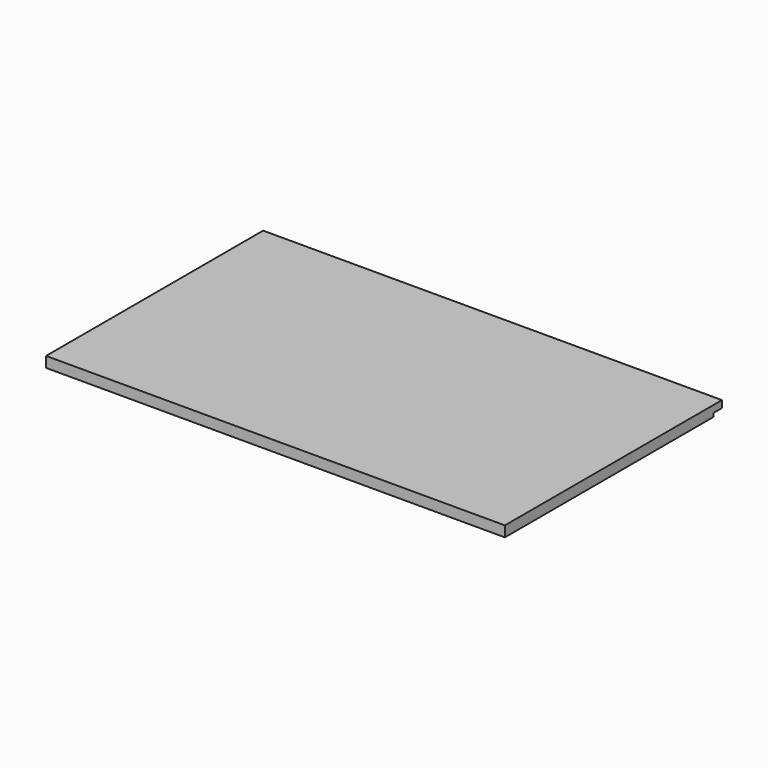
from build123d import *

# Parameters (mm, degrees)
F0_W     = 780.35
F0_H     = 461.45
F1_DEPTH = 18
F2_W     = 511.61696
F2_H     = 19
F2_W_2   = 780.35
F2_H_2   = 18
F3_DEPTH = 6


with BuildPart() as f1:
    # F0 (on Top) → F1 (new body)
    with BuildSketch(Plane.XY):
        with Locations((0.709837, -52.39902)):
            Rectangle(F0_W, F0_H)
    extrude(amount=F1_DEPTH)

    # F2 (on face) → F3 (cut)
    with BuildSketch(Plane(origin=(0, 0, 0), x_dir=(1, 0, 0), z_dir=(0, 0, -1))):
        with Locations((0.636761, 248.22402)):
            Rectangle(F2_W, F2_H)
        with Locations((0.709837, -169.32598)):
            Rectangle(F2_W_2, F2_H_2)
    extrude(amount=-F3_DEPTH, mode=Mode.SUBTRACT)


solid = f1.part
